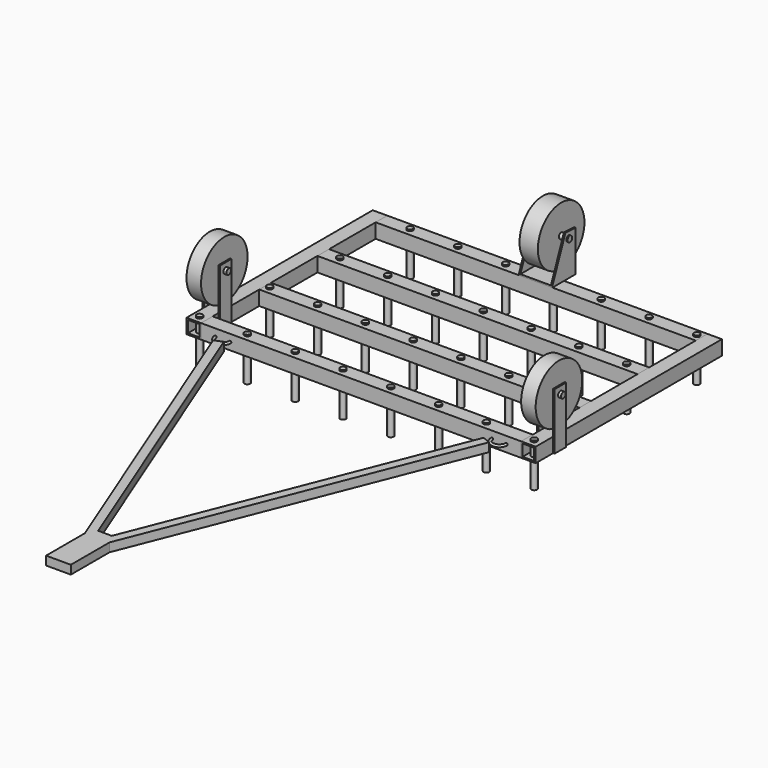
from build123d import *

# Parameters (mm, degrees)
F2_W           = 50
F2_H           = 50
F2_W_2         = 40
F2_H_2         = 40
F3_DEPTH       = 550
F5_W           = 50
F5_H           = 50
F5_W_2         = 40
F5_H_2         = 40
F6_DEPTH       = 800
F10_R          = 10
F11_DEPTH      = 5
F11_DEPTH_BACK = 145
F12_R          = 10
F13_DEPTH      = 5
F13_DEPTH_BACK = 145
F14_R          = 10
F15_DEPTH      = 5
F15_DEPTH_BACK = 145
F16_R          = 10
F17_DEPTH      = 5
F17_DEPTH_BACK = 145
F21_R          = 4
F25_DEPTH      = 15
F27_R          = 100
F27_R_2        = 10
F28_DEPTH      = 25
F29_W          = 50
F29_H          = 195
F29_R          = 10
F30_DEPTH      = 5
F32_R          = 10
F33_DEPTH      = 10
F33_DEPTH_BACK = 70
F35_R          = 100
F36_DEPTH      = 31.5
F37_W          = 115
F37_H          = 100
F38_DEPTH      = 5
F40_DEPTH      = 5
F42_R          = 10
F43_DEPTH      = 30
F43_DEPTH_BACK = 92


with BuildPart() as f3:
    # F2 (on Right) → F3 (new body, symmetric)
    with BuildSketch(Plane.YZ):
        with Locations((-375, 25)):
            Rectangle(F2_W, F2_H)
        with Locations((-375, 25)):
            Rectangle(F2_W_2, F2_H_2, mode=Mode.SUBTRACT)
    extrude(amount=F3_DEPTH, both=True)


with BuildPart() as f3b:
    # F2 (on Right) → F3, piece 2 (new body, symmetric)
    with BuildSketch(Plane.YZ):
        with Locations((-125, 25)):
            Rectangle(F2_W, F2_H)
        with Locations((-125, 25)):
            Rectangle(F2_W_2, F2_H_2, mode=Mode.SUBTRACT)
    extrude(amount=F3_DEPTH, both=True)


with BuildPart() as f4_1:
    # F4: instance of F3
    add(f3.part.mirror(Plane.XZ))


with BuildPart() as f4_2:
    # F4: instance of F3b
    add(f3b.part.mirror(Plane.XZ))


with BuildPart() as f6:
    # F5 (on face) → F6 (new body, through all)
    with BuildSketch(Plane.XZ.offset(400)):
        with Locations((575, 25)):
            Rectangle(F5_W, F5_H)
        with Locations((575, 25)):
            Rectangle(F5_W_2, F5_H_2, mode=Mode.SUBTRACT)
    extrude(amount=-F6_DEPTH)


with BuildPart() as f7_1:
    # F7: instance of F6
    add(f6.part.mirror(Plane.YZ))


with BuildPart() as f11:
    # F10 (on face) → F11 (new body, two sides)
    with BuildSketch(Plane.XY.offset(50)) as f11_sk:
        with Locations((-575, -375)):
            Circle(F10_R)
    extrude(amount=F11_DEPTH)
    extrude(f11_sk.sketch, amount=-F11_DEPTH_BACK)


with BuildPart() as f11b:
    # F10 (on face) → F11, piece 2 (new body, two sides)
    with BuildSketch(Plane.XY.offset(50)) as f11_2_sk:
        with Locations((-410.7142857143, -375)):
            Circle(F10_R)
    extrude(amount=F11_DEPTH)
    extrude(f11_2_sk.sketch, amount=-F11_DEPTH_BACK)


with BuildPart() as f11c:
    # F10 (on face) → F11, piece 3 (new body, two sides)
    with BuildSketch(Plane.XY.offset(50)) as f11_3_sk:
        with Locations((-246.4285714286, -375)):
            Circle(F10_R)
    extrude(amount=F11_DEPTH)
    extrude(f11_3_sk.sketch, amount=-F11_DEPTH_BACK)


with BuildPart() as f11d:
    # F10 (on face) → F11, piece 4 (new body, two sides)
    with BuildSketch(Plane.XY.offset(50)) as f11_4_sk:
        with Locations((-82.1428571429, -375)):
            Circle(F10_R)
    extrude(amount=F11_DEPTH)
    extrude(f11_4_sk.sketch, amount=-F11_DEPTH_BACK)


with BuildPart() as f11e:
    # F10 (on face) → F11, piece 5 (new body, two sides)
    with BuildSketch(Plane.XY.offset(50)) as f11_5_sk:
        with Locations((82.1428571429, -375)):
            Circle(F10_R)
    extrude(amount=F11_DEPTH)
    extrude(f11_5_sk.sketch, amount=-F11_DEPTH_BACK)


with BuildPart() as f11f:
    # F10 (on face) → F11, piece 6 (new body, two sides)
    with BuildSketch(Plane.XY.offset(50)) as f11_6_sk:
        with Locations((246.4285714286, -375)):
            Circle(F10_R)
    extrude(amount=F11_DEPTH)
    extrude(f11_6_sk.sketch, amount=-F11_DEPTH_BACK)


with BuildPart() as f11g:
    # F10 (on face) → F11, piece 7 (new body, two sides)
    with BuildSketch(Plane.XY.offset(50)) as f11_7_sk:
        with Locations((410.7142857143, -375)):
            Circle(F10_R)
    extrude(amount=F11_DEPTH)
    extrude(f11_7_sk.sketch, amount=-F11_DEPTH_BACK)


with BuildPart() as f11h:
    # F10 (on face) → F11, piece 8 (new body, two sides)
    with BuildSketch(Plane.XY.offset(50)) as f11_8_sk:
        with Locations((575, -375)):
            Circle(F10_R)
    extrude(amount=F11_DEPTH)
    extrude(f11_8_sk.sketch, amount=-F11_DEPTH_BACK)


with BuildPart() as f13:
    # F12 (on face) → F13 (new body, two sides)
    with BuildSketch(Plane.XY.offset(50)) as f13_sk:
        with Locations((-533.9285714286, -125)):
            Circle(F12_R)
    extrude(amount=F13_DEPTH)
    extrude(f13_sk.sketch, amount=-F13_DEPTH_BACK)


with BuildPart() as f13b:
    # F12 (on face) → F13, piece 2 (new body, two sides)
    with BuildSketch(Plane.XY.offset(50)) as f13_2_sk:
        with Locations((-369.6428571429, -125)):
            Circle(F12_R)
    extrude(amount=F13_DEPTH)
    extrude(f13_2_sk.sketch, amount=-F13_DEPTH_BACK)


with BuildPart() as f13c:
    # F12 (on face) → F13, piece 3 (new body, two sides)
    with BuildSketch(Plane.XY.offset(50)) as f13_3_sk:
        with Locations((-205.3571428571, -125)):
            Circle(F12_R)
    extrude(amount=F13_DEPTH)
    extrude(f13_3_sk.sketch, amount=-F13_DEPTH_BACK)


with BuildPart() as f13d:
    # F12 (on face) → F13, piece 4 (new body, two sides)
    with BuildSketch(Plane.XY.offset(50)) as f13_4_sk:
        with Locations((-41.0714285714, -125)):
            Circle(F12_R)
    extrude(amount=F13_DEPTH)
    extrude(f13_4_sk.sketch, amount=-F13_DEPTH_BACK)


with BuildPart() as f13e:
    # F12 (on face) → F13, piece 5 (new body, two sides)
    with BuildSketch(Plane.XY.offset(50)) as f13_5_sk:
        with Locations((123.2142857143, -125)):
            Circle(F12_R)
    extrude(amount=F13_DEPTH)
    extrude(f13_5_sk.sketch, amount=-F13_DEPTH_BACK)


with BuildPart() as f13f:
    # F12 (on face) → F13, piece 6 (new body, two sides)
    with BuildSketch(Plane.XY.offset(50)) as f13_6_sk:
        with Locations((287.5, -125)):
            Circle(F12_R)
    extrude(amount=F13_DEPTH)
    extrude(f13_6_sk.sketch, amount=-F13_DEPTH_BACK)


with BuildPart() as f13g:
    # F12 (on face) → F13, piece 7 (new body, two sides)
    with BuildSketch(Plane.XY.offset(50)) as f13_7_sk:
        with Locations((451.7857142857, -125)):
            Circle(F12_R)
    extrude(amount=F13_DEPTH)
    extrude(f13_7_sk.sketch, amount=-F13_DEPTH_BACK)


with BuildPart() as f15:
    # F14 (on face) → F15 (new body, two sides)
    with BuildSketch(Plane.XY.offset(50)) as f15_sk:
        with Locations((-492.8571428571, 125)):
            Circle(F14_R)
    extrude(amount=F15_DEPTH)
    extrude(f15_sk.sketch, amount=-F15_DEPTH_BACK)


with BuildPart() as f15b:
    # F14 (on face) → F15, piece 2 (new body, two sides)
    with BuildSketch(Plane.XY.offset(50)) as f15_2_sk:
        with Locations((-328.5714285714, 125)):
            Circle(F14_R)
    extrude(amount=F15_DEPTH)
    extrude(f15_2_sk.sketch, amount=-F15_DEPTH_BACK)


with BuildPart() as f15c:
    # F14 (on face) → F15, piece 3 (new body, two sides)
    with BuildSketch(Plane.XY.offset(50)) as f15_3_sk:
        with Locations((-164.2857142857, 125)):
            Circle(F14_R)
    extrude(amount=F15_DEPTH)
    extrude(f15_3_sk.sketch, amount=-F15_DEPTH_BACK)


with BuildPart() as f15d:
    # F14 (on face) → F15, piece 4 (new body, two sides)
    with BuildSketch(Plane.XY.offset(50)) as f15_4_sk:
        with Locations((0, 125)):
            Circle(F14_R)
    extrude(amount=F15_DEPTH)
    extrude(f15_4_sk.sketch, amount=-F15_DEPTH_BACK)


with BuildPart() as f15e:
    # F14 (on face) → F15, piece 5 (new body, two sides)
    with BuildSketch(Plane.XY.offset(50)) as f15_5_sk:
        with Locations((164.2857142857, 125)):
            Circle(F14_R)
    extrude(amount=F15_DEPTH)
    extrude(f15_5_sk.sketch, amount=-F15_DEPTH_BACK)


with BuildPart() as f15f:
    # F14 (on face) → F15, piece 6 (new body, two sides)
    with BuildSketch(Plane.XY.offset(50)) as f15_6_sk:
        with Locations((328.5714285714, 125)):
            Circle(F14_R)
    extrude(amount=F15_DEPTH)
    extrude(f15_6_sk.sketch, amount=-F15_DEPTH_BACK)


with BuildPart() as f15g:
    # F14 (on face) → F15, piece 7 (new body, two sides)
    with BuildSketch(Plane.XY.offset(50)) as f15_7_sk:
        with Locations((492.8571428571, 125)):
            Circle(F14_R)
    extrude(amount=F15_DEPTH)
    extrude(f15_7_sk.sketch, amount=-F15_DEPTH_BACK)


with BuildPart() as f17:
    # F16 (on face) → F17 (new body, two sides)
    with BuildSketch(Plane.XY.offset(50)) as f17_sk:
        with Locations((-451.7857142857, 375)):
            Circle(F16_R)
    extrude(amount=F17_DEPTH)
    extrude(f17_sk.sketch, amount=-F17_DEPTH_BACK)


with BuildPart() as f17b:
    # F16 (on face) → F17, piece 2 (new body, two sides)
    with BuildSketch(Plane.XY.offset(50)) as f17_2_sk:
        with Locations((-287.5, 375)):
            Circle(F16_R)
    extrude(amount=F17_DEPTH)
    extrude(f17_2_sk.sketch, amount=-F17_DEPTH_BACK)


with BuildPart() as f17c:
    # F16 (on face) → F17, piece 3 (new body, two sides)
    with BuildSketch(Plane.XY.offset(50)) as f17_3_sk:
        with Locations((-123.2142857143, 375)):
            Circle(F16_R)
    extrude(amount=F17_DEPTH)
    extrude(f17_3_sk.sketch, amount=-F17_DEPTH_BACK)


with BuildPart() as f17d:
    # F16 (on face) → F17, piece 4 (new body, two sides)
    with BuildSketch(Plane.XY.offset(50)) as f17_4_sk:
        with Locations((41.0714285714, 375)):
            Circle(F16_R)
    extrude(amount=F17_DEPTH)
    extrude(f17_4_sk.sketch, amount=-F17_DEPTH_BACK)


with BuildPart() as f17e:
    # F16 (on face) → F17, piece 5 (new body, two sides)
    with BuildSketch(Plane.XY.offset(50)) as f17_5_sk:
        with Locations((205.3571428571, 375)):
            Circle(F16_R)
    extrude(amount=F17_DEPTH)
    extrude(f17_5_sk.sketch, amount=-F17_DEPTH_BACK)


with BuildPart() as f17f:
    # F16 (on face) → F17, piece 6 (new body, two sides)
    with BuildSketch(Plane.XY.offset(50)) as f17_6_sk:
        with Locations((369.6428571429, 375)):
            Circle(F16_R)
    extrude(amount=F17_DEPTH)
    extrude(f17_6_sk.sketch, amount=-F17_DEPTH_BACK)


with BuildPart() as f17g:
    # F16 (on face) → F17, piece 7 (new body, two sides)
    with BuildSketch(Plane.XY.offset(50)) as f17_7_sk:
        with Locations((533.9285714286, 375)):
            Circle(F16_R)
    extrude(amount=F17_DEPTH)
    extrude(f17_7_sk.sketch, amount=-F17_DEPTH_BACK)


with BuildPart() as f22:
    # F22: sweep along a path in F19
    with BuildLine(Plane.XY.offset(25)) as f22_path:
        ThreePointArc((-500, -400), (-475, -425), (-450, -400))
    # F21 (on line) → F22 (sweep)
    with BuildSketch(Plane(origin=(0, -400, 0), x_dir=(-1, 0, 0), z_dir=(0, 1, 0))):
        with Locations((450, 25)):
            Circle(F21_R)
    sweep(path=f22_path.line)


with BuildPart() as f23_1:
    # F23: instance of F22
    add(f22.part.mirror(Plane.YZ))


with BuildPart() as f25:
    # F24 (on mid) → F25 (new body, symmetric)
    with BuildSketch(Plane.XY.offset(25)):
        Polygon((-446.3309627636, -431.6715377577), (-474.2251611558, -442.712991288), (-42.5, -1533.3870826289), (-42.5, -1500), (-23.4509464594, -1500), align=None)
        Polygon((-42.5, -1500), (-42.5, -1533.3870826289), (-14.6058016079, -1522.3456290986), (-23.4509464594, -1500), align=None)
        Polygon((-14.6058016079, -1522.3456290986), (-42.5, -1533.3870826289), (-42.5, -1700), (42.5, -1700), (42.5, -1533.3870826289), (14.6058016079, -1522.3456290986), (23.4509464594, -1500), (-23.4509464594, -1500), align=None)
        Polygon((42.5, -1500), (23.4509464594, -1500), (14.6058016079, -1522.3456290986), (42.5, -1533.3870826289), align=None)
        Polygon((446.3309627636, -431.6715377577), (23.4509464594, -1500), (42.5, -1500), (42.5, -1533.3870826289), (474.2251611558, -442.712991288), align=None)
    extrude(amount=F25_DEPTH, both=True)


with BuildPart() as f28:
    # F27 (on mid) → F28 (new body, symmetric)
    with BuildSketch(Plane.YZ.offset(575)):
        with Locations((-300, 170)):
            Circle(F27_R)
        with Locations((-300, 170)):
            Circle(F27_R_2, mode=Mode.SUBTRACT)
    extrude(amount=F28_DEPTH, both=True)


with BuildPart() as f30:
    # F29 (on face) → F30 (new body)
    with BuildSketch(Plane.YZ.offset(600)):
        with Locations((-300, 97.5)):
            Rectangle(F29_W, F29_H)
        with Locations((-300, 170)):
            Circle(F29_R, mode=Mode.SUBTRACT)
    extrude(amount=F30_DEPTH)


with BuildPart() as f31_1:
    # F31: instance of F30
    add(f30.part.mirror(Plane(origin=(575, 0, 25), x_dir=(0, 1, 0), z_dir=(1, 0, 0))))


with BuildPart() as f33:
    # F32 (on face) → F33 (new body, two sides)
    with BuildSketch(Plane.YZ.offset(605)) as f33_sk:
        with Locations((-300, 170)):
            Circle(F32_R)
    extrude(amount=F33_DEPTH)
    extrude(f33_sk.sketch, amount=-F33_DEPTH_BACK)


with BuildPart() as f34_1:
    # F34: instance of F31_1
    add(f31_1.part.mirror(Plane.YZ))


with BuildPart() as f34_2:
    # F34: instance of F30
    add(f30.part.mirror(Plane.YZ))


with BuildPart() as f34_3:
    # F34: instance of F33
    add(f33.part.mirror(Plane.YZ))


with BuildPart() as f34_4:
    # F34: instance of F28
    add(f28.part.mirror(Plane.YZ))


with BuildPart() as f36:
    # F35 (on Right) → F36 (new body, symmetric)
    with BuildSketch(Plane.YZ):
        with Locations((420, 170)):
            Circle(F35_R)
    extrude(amount=F36_DEPTH, both=True)


with BuildPart() as f38:
    # F37 (on face) → F38 (new body)
    with BuildSketch(Plane.XY.offset(50)):
        with Locations((0, 400)):
            Rectangle(F37_W, F37_H)
    extrude(amount=F38_DEPTH)



with BuildPart() as f40:
    # F39 (on face) → F40 (new body)
    with BuildSketch(Plane.YZ.offset(57.5)):
        Polygon((406.0569703579, 193.416684866), (350, 55), (450, 55), (450, 190.6481534243), align=None)
    extrude(amount=-F40_DEPTH)


with BuildPart() as f38_1:
    add(f38.part)

    add(f40.part)  # F41 merges F40
    # F41: F40 across plane
    add(f40.part.mirror(Plane.YZ))


with BuildPart() as f43:
    # F42 (on face) → F43 (new body, two sides)
    with BuildSketch(Plane.YZ.offset(31.5)) as f43_sk:
        with Locations((420, 170)):
            Circle(F42_R)
    extrude(amount=F43_DEPTH)
    extrude(f43_sk.sketch, amount=-F43_DEPTH_BACK)


solid = Compound([f3.part, f3b.part, f4_1.part, f4_2.part, f6.part, f7_1.part, f11.part, f11b.part, f11c.part, f11d.part, f11e.part, f11f.part, f11g.part, f11h.part, f13.part, f13b.part, f13c.part, f13d.part, f13e.part, f13f.part, f13g.part, f15.part, f15b.part, f15c.part, f15d.part, f15e.part, f15f.part, f15g.part, f17.part, f17b.part, f17c.part, f17d.part, f17e.part, f17f.part, f17g.part, f22.part, f23_1.part, f25.part, f28.part, f30.part, f31_1.part, f33.part, f34_1.part, f34_2.part, f34_3.part, f34_4.part, f36.part, f38_1.part, f43.part])
